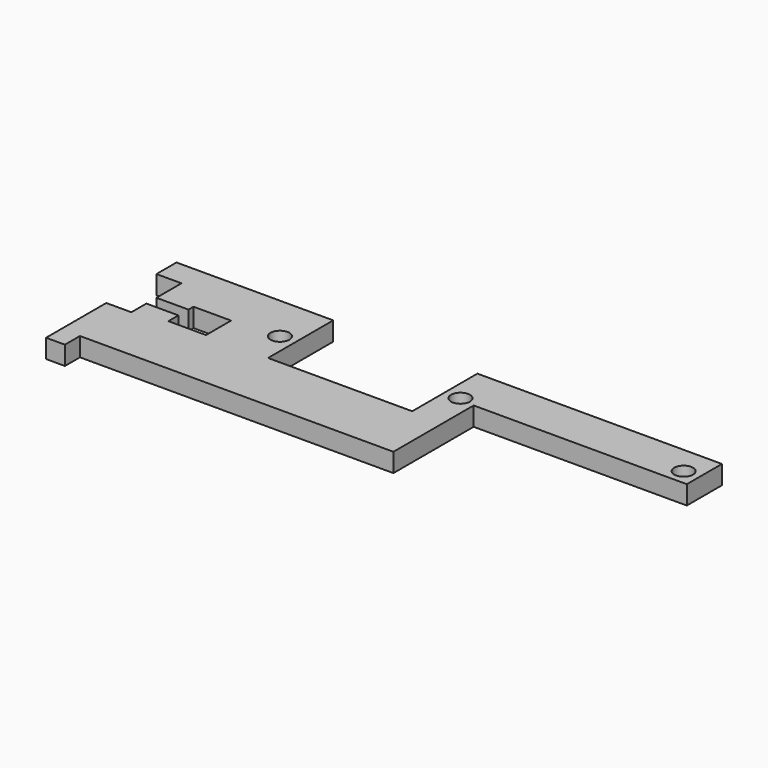
from build123d import *

# Parameters (mm, degrees)
F0_R     = 1.5
F0_W     = 34
F0_H     = 7
F1_DEPTH = 3


with BuildPart() as f1:
    # F0 (on Top) → F1 (new body)
    with BuildSketch(Plane.XY):
        Polygon((-37.1088162065, -3.0134898722), (-37.1088162065, -15.0134898722), (-34.1088162065, -15.0134898722), (-34.1088162065, -12.0134898722), (15.8911837935, -12.0134898722), (15.8911837935, 3.9865101278), (15.8911837935, 10.9865101278), (10.8911837935, 10.9865101278), (10.8911837935, -2.0134898722), (-12.1088162065, -2.0134898722), (-12.1088162065, 10.9865101278), (-37.1088162065, 10.9865101278), (-37.1088162065, 6.9865101278), (-33.1088162065, 6.9865101278), (-33.1088162065, 1.9865101278), (-27.9982879013, 1.9865101278), (-27.9982879013, 2.9865101278), (-21.9982879013, 2.9865101278), (-21.9982879013, -2.0134898722), (-27.9982879013, -2.0134898722), (-27.9982879013, -0.0134898722), (-33.1088162065, -0.0134898722), (-33.1088162065, -3.0134898722), align=None)
        with Locations((-14.6088162065, 3.4865101278)):
            Circle(F0_R, mode=Mode.SUBTRACT)
        with Locations((13.3911837935, 4.4865101278)):
            Circle(F0_R, mode=Mode.SUBTRACT)
        with Locations((32.8911837935, 7.4865101278)):
            Rectangle(F0_W, F0_H)
        with Locations((47.3911837935, 6.4865101278)):
            Circle(F0_R, mode=Mode.SUBTRACT)
    extrude(amount=F1_DEPTH)


solid = f1.part
